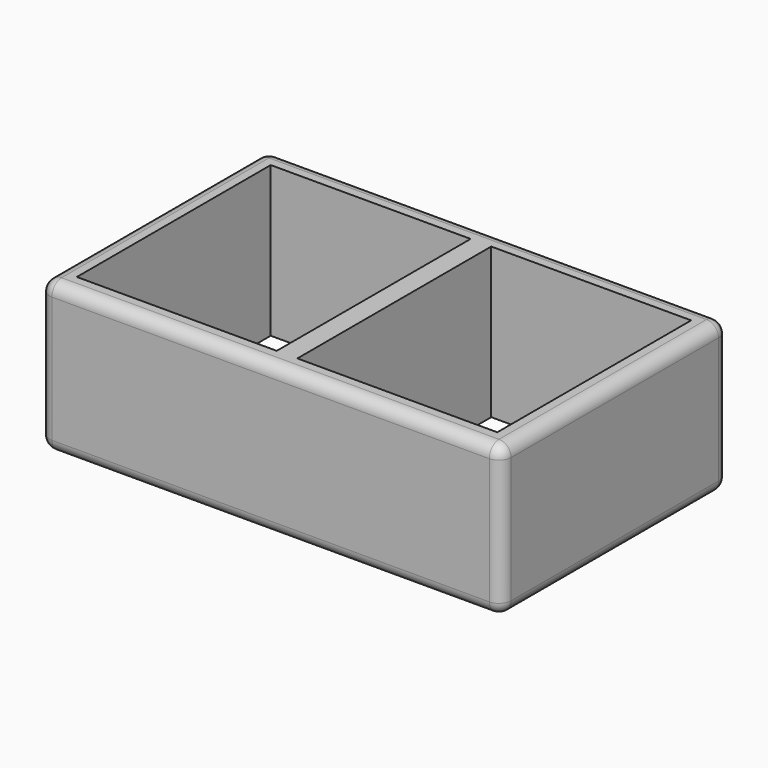
from build123d import *

# Parameters (mm, degrees)
F0_W     = 190.5
F0_H     = 117
F0_W_2   = 82.5
F0_H_2   = 100
F1_DEPTH = 62
F2_R     = 5


with BuildPart() as f1:
    # F0 (on Top) → F1 (new body)
    with BuildSketch(Plane.XY):
        with Locations((-95.25, 58.5)):
            Rectangle(F0_W, F0_H)
        with Locations((-140.75, 58.5)):
            Rectangle(F0_W_2, F0_H_2, mode=Mode.SUBTRACT)
        with Locations((-49.75, 58.5)):
            Rectangle(F0_W_2, F0_H_2, mode=Mode.SUBTRACT)
    extrude(amount=F1_DEPTH)

    # F2
    f2_edges = [f1.edges().sort_by_distance(p)[0] for p in [
        (-95.25, 117, 62),
        (-95.25, 117, 0),
        (-95.25, 0, 62),
        (-95.25, 0, 0),
        (-190.5, 58.5, 0),
        (-190.5, 58.5, 62),
        (0, 58.5, 0),
        (0, 0, 31),
        (0, 58.5, 62),
        (0, 117, 31),
        (-190.5, 117, 31),
        (-190.5, 0, 31),
    ]]
    fillet(f2_edges, radius=F2_R)


solid = f1.part
